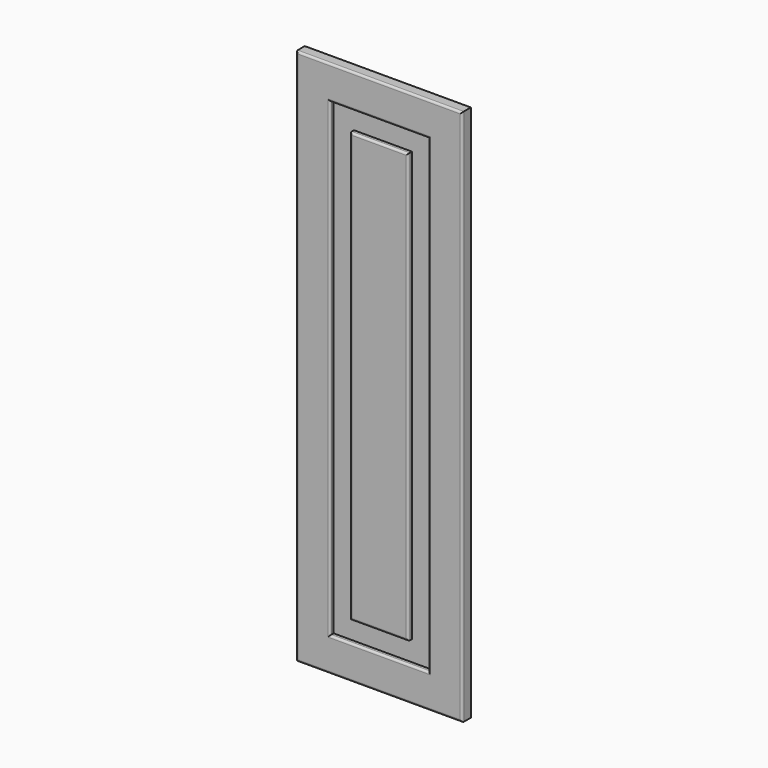
from build123d import *

# Parameters (mm, degrees)
F0_W      = 44.656470418
F0_H      = 33.8078811765
F1_DEPTH  = 16
F2_DEPTH  = 796
F3_DEPTH  = 196
F4_W      = 68.9578056335
F4_H      = 493.6993122101
F5_DEPTH  = 7
F6_DEPTH  = 9.7
F7_DEPTH  = 99.33
F8_DEPTH  = 99.33
F9_DEPTH  = 17.34
F10_DEPTH = 102.97
F11_W     = 35.2807044983
F11_H     = 492.0964837074
F12_DEPTH = 7
F13_DEPTH = 37.27
F14_DEPTH = 6.58
F15_DEPTH = 106.63
F16_DEPTH = 5.87
F17_DEPTH = 200
F18_DEPTH = 200
F19_DEPTH = 200
F20_DEPTH = 200
F21_DEPTH = 200
F22_DEPTH = 200
F23_DEPTH = 350
F24_DEPTH = 350
F25_DEPTH = 350
F26_R     = 3


with BuildPart() as f1:
    # F0 (on Front) → F1 (new body)
    with BuildSketch(Plane.XZ):
        with Locations((22.328235209, 16.9039405882)):
            Rectangle(F0_W, F0_H)
    extrude(amount=F1_DEPTH)

    # F2 (add): a face of the model
    f2_faces = [f1.faces().sort_by_distance(p)[0] for p in [
        (22.328235209, -8, 0),
    ]]
    extrude(f2_faces, amount=-F2_DEPTH)

    # F3 (add): a face of the model
    f3_faces = [f1.faces().sort_by_distance(p)[0] for p in [
        (0, -8, 398),
    ]]
    extrude(f3_faces, amount=-F3_DEPTH)

    # F4 (on face) → F5 (cut)
    with BuildSketch(Plane.XZ.offset(16)):
        with Locations((94.1769480705, 399.8196721077)):
            Rectangle(F4_W, F4_H)
    extrude(amount=-F5_DEPTH, mode=Mode.SUBTRACT)

    # F6 (cut): a face of the model
    f6_faces = [f1.faces().sort_by_distance(p)[0] for p in [
        (59.6980452538, -12.5, 399.8196721077),
    ]]
    extrude(f6_faces, amount=-F6_DEPTH, mode=Mode.SUBTRACT)

    # F7 (add): a face of the model
    f7_faces = [f1.faces().sort_by_distance(p)[0] for p in [
        (89.3269480705, -12.5, 646.6693282127),
    ]]
    extrude(f7_faces, amount=-F7_DEPTH)

    # F8 (cut): a face of the model
    f8_faces = [f1.faces().sort_by_distance(p)[0] for p in [
        (89.3269480705, -12.5, 646.6693282127),
    ]]
    extrude(f8_faces, amount=-F8_DEPTH, mode=Mode.SUBTRACT)

    # F9 (cut): a face of the model
    f9_faces = [f1.faces().sort_by_distance(p)[0] for p in [
        (128.6558508873, -12.5, 449.4846721077),
    ]]
    extrude(f9_faces, amount=-F9_DEPTH, mode=Mode.SUBTRACT)

    # F10 (cut): a face of the model
    f10_faces = [f1.faces().sort_by_distance(p)[0] for p in [
        (97.9969480705, -12.5, 152.9700160027),
    ]]
    extrude(f10_faces, amount=-F10_DEPTH, mode=Mode.SUBTRACT)

    # F11 (on face) → F12 (join)
    with BuildSketch(Plane.XZ.offset(9)):
        with Locations((91.7714834213, 432.6795041561)):
            Rectangle(F11_W, F11_H)
    extrude(amount=F12_DEPTH)

    # F13 (add): a face of the model
    f13_faces = [f1.faces().sort_by_distance(p)[0] for p in [
        (91.7714834213, -12.5, 678.7277460098),
    ]]
    extrude(f13_faces, amount=F13_DEPTH)

    # F14 (add): a face of the model
    f14_faces = [f1.faces().sort_by_distance(p)[0] for p in [
        (109.4118356705, -12.5, 451.3145041561),
    ]]
    extrude(f14_faces, amount=F14_DEPTH)

    # F15 (add): a face of the model
    f15_faces = [f1.faces().sort_by_distance(p)[0] for p in [
        (95.0614834213, -12.5, 186.6312623024),
    ]]
    extrude(f15_faces, amount=F15_DEPTH)

    # F16 (cut): a face of the model
    f16_faces = [f1.faces().sort_by_distance(p)[0] for p in [
        (74.1311311722, -12.5, 397.9995041561),
    ]]
    extrude(f16_faces, amount=-F16_DEPTH, mode=Mode.SUBTRACT)

    # F17 (add): a face of the model
    f17_faces = [f1.faces().sort_by_distance(p)[0] for p in [
        (196, -8, 398),
    ]]
    extrude(f17_faces, amount=F17_DEPTH)

    # F18 (cut): a face of the model
    f18_faces = [f1.faces().sort_by_distance(p)[0] for p in [
        (145.9958508873, -12.5, 397.9996721077),
    ]]
    extrude(f18_faces, amount=-F18_DEPTH, mode=Mode.SUBTRACT)

    # F19 (add): a face of the model
    f19_faces = [f1.faces().sort_by_distance(p)[0] for p in [
        (115.9918356705, -12.5, 397.9995041561),
    ]]
    extrude(f19_faces, amount=F19_DEPTH)

    # F20 (add): a face of the model
    f20_faces = [f1.faces().sort_by_distance(p)[0] for p in [
        (396, -8, 398),
    ]]
    extrude(f20_faces, amount=F20_DEPTH)

    # F21 (cut): a face of the model
    f21_faces = [f1.faces().sort_by_distance(p)[0] for p in [
        (345.9958508873, -12.5, 397.9996721077),
    ]]
    extrude(f21_faces, amount=-F21_DEPTH, mode=Mode.SUBTRACT)

    # F22 (add): a face of the model
    f22_faces = [f1.faces().sort_by_distance(p)[0] for p in [
        (315.9918356705, -12.5, 397.9995041561),
    ]]
    extrude(f22_faces, amount=F22_DEPTH)

    # F23 (cut): a face of the model
    f23_faces = [f1.faces().sort_by_distance(p)[0] for p in [
        (515.9918356705, -12.5, 397.9995041561),
    ]]
    extrude(f23_faces, amount=-F23_DEPTH, mode=Mode.SUBTRACT)

    # F24 (add): a face of the model
    f24_faces = [f1.faces().sort_by_distance(p)[0] for p in [
        (545.9958508873, -12.5, 397.9996721077),
    ]]
    extrude(f24_faces, amount=F24_DEPTH)

    # F25 (cut): a face of the model
    f25_faces = [f1.faces().sort_by_distance(p)[0] for p in [
        (596, -8, 398),
    ]]
    extrude(f25_faces, amount=-F25_DEPTH, mode=Mode.SUBTRACT)

    # F26
    f26_edges = [f1.edges().sort_by_distance(p)[0] for p in [
        (122.996483, -16, 715.997746),
        (165.991836, -16, 397.999504),
        (122.996483, -16, 80.001262),
        (80.001131, -16, 397.999504),
        (0, -16, 398),
        (123, -16, 796),
        (246, -16, 398),
        (123, -16, 0),
        (49.998045, -16, 397.999672),
        (122.996948, -16, 50.000016),
        (122.996948, -16, 745.999328),
        (195.995851, -16, 397.999672),
    ]]
    fillet(f26_edges, radius=F26_R)


solid = f1.part
